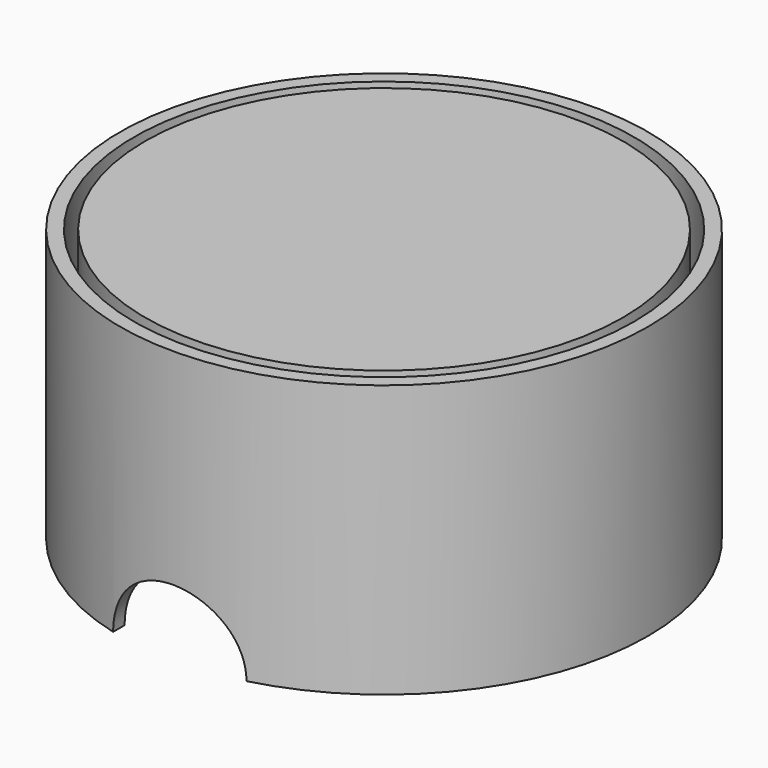
from build123d import *

# Parameters (mm, degrees)
F0_R     = 23.75
F0_R_2   = 22.5
F1_DEPTH = 12.5
F2_DEPTH = 1.5
F3_D     = 1.65
F4_DEPTH = 12
F6_D     = 12
F6_DEPTH = 23.751
F7_D     = 12
F8_R     = 21.5
F9_DEPTH = 9


with BuildPart() as f1:
    # F0 (on Top) → F1 (new body)
    with BuildSketch(Plane.XY):
        Circle(F0_R)
        Circle(F0_R_2, mode=Mode.SUBTRACT)
    extrude(amount=F1_DEPTH)

    # F0 (on Top) → F2 (join)
    with BuildSketch(Plane.XY):
        Circle(F0_R_2)
    extrude(amount=F2_DEPTH)

    # F3 (through all)
    with Locations(Plane(origin=(0, 0, 0), x_dir=(1, 0, 0), z_dir=(0, 0, -1))):
        with Locations((-16, -12), (-16, 0), (-12, 0), (-12, 4), (-12, -4), (-12, -8), (-12, -12), (-12, -16), (-8, -12), (-12, 16), (-12, 12), (-16, 12), (-8, 12), (-12, 8), (-4, 12), (0, 16), (0, 12), (0, 8), (4, 12), (8, 12), (0, 4), (-4, 0), (-8, 0), (0, -4), (4, 0), (0, 0), (0, -8), (-4, -12), (0, -12), (0, -16), (4, -12), (8, -12), (12, -16), (12, -12), (16, -12), (12, -8), (12, -4), (12, 0), (8, 0), (16, 0), (12, 4), (12, 8), (16, 12), (12, 12), (12, 16)):
            Hole(F3_D / 2)

    # F0 (on Top) → F4 (join)
    with BuildSketch(Plane.XY):
        Circle(F0_R)
        Circle(F0_R_2, mode=Mode.SUBTRACT)
    extrude(amount=-F4_DEPTH)

    # F6 (through all, one way)
    with BuildSketch(Plane(origin=(0, 0, 0), x_dir=(1, 0, 0), z_dir=(0, 1, 0))):
        with Locations((0, 11.999944225)):
            Circle(F6_D / 2)
    extrude(amount=-F6_DEPTH, mode=Mode.SUBTRACT)

    # F7 (through all)
    with Locations(Plane.XZ):
        with Locations((0, -11.999944225)):
            Hole(F7_D / 2)


with BuildPart() as f9:
    # F8 (on face) → F9 (new body, through all)
    with BuildSketch(Plane.XY.offset(12.5)):
        Circle(F8_R)
    extrude(amount=-F9_DEPTH)


solid = Compound([f1.part, f9.part])
